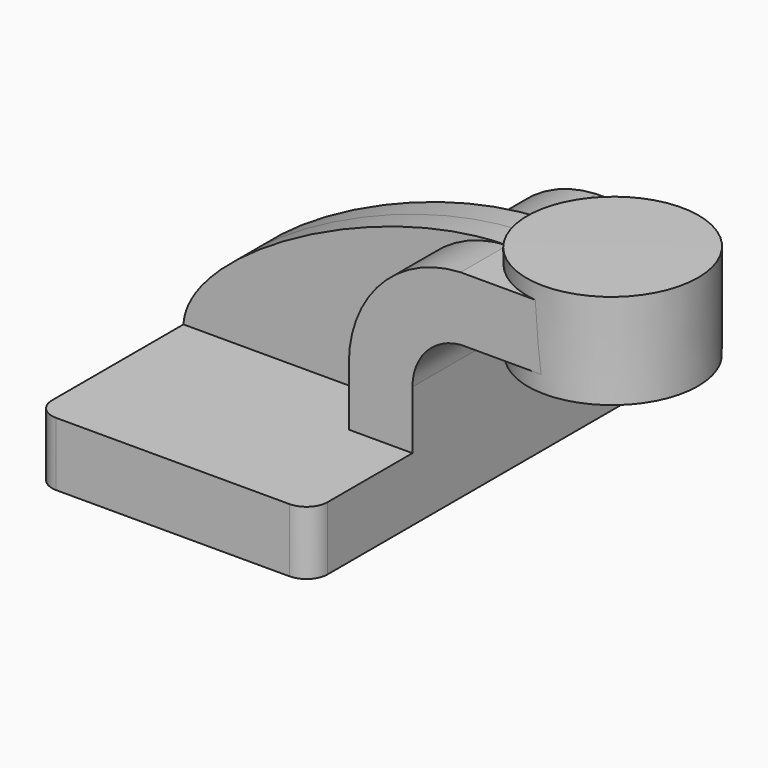
from build123d import *

# Parameters (mm, degrees)
F1_DEPTH = 63.5
F2_DEPTH = 25.4
F3_DEPTH = 7.9375
F4_DEPTH = 25.4
F6_R     = 6.35


with BuildPart() as f1:
    # F0 (on Front) → F1 (new body, symmetric)
    with BuildSketch(Plane.XZ):
        Polygon((22.225, 9.525), (-41.275, 9.525), (-41.275, -9.525), (41.275, -9.525), (41.275, 9.525), align=None)
    extrude(amount=F1_DEPTH, both=True)

    # F0 (on Front) → F2 (join, symmetric)
    with BuildSketch(Plane.XZ):
        with BuildLine():
            Line((22.225, 27.0002), (22.225, 9.525))
            Line((22.225, 9.525), (41.275, 9.525))
            Line((41.275, 9.525), (41.275, 27.0002))
            ThreePointArc((41.275, 27.0002), (45.4231719771, 37.70053315), (55.6998352153, 42.8088257182))
            Line((55.6998352153, 42.8088257182), (55.6998352153, 61.8950799553))
            ThreePointArc((55.6998352153, 61.8950799553), (31.9467995078, 51.1777579815), (22.225, 27.0002))
        make_face()
    extrude(amount=F2_DEPTH, both=True)

    # F0 (on Front) → F3 (join, symmetric)
    with BuildSketch(Plane.XZ):
        with BuildLine():
            add(Edge.make_bspline(
                [(-41.275, 9.525), (-40.1314669034, 30.5728232182), (15.8217890978, 61.4964285617), (55.6998352153, 61.9232521068)],
                knots=[0, 0, 0, 0, 110.1624749452, 110.1624749452, 110.1624749452, 110.1624749452], degree=3))
            Line((-41.275, 9.525), (22.225, 9.525))
            Line((22.225, 9.525), (22.225, 27.0002))
            ThreePointArc((22.225, 27.0002), (31.9467995078, 51.1777579815), (55.6998352153, 61.8950799553))
            Line((55.6998352153, 61.8950799553), (55.6998352153, 61.9232521068))
        make_face()
    extrude(amount=F3_DEPTH, both=True)

    # F4 (add): a face of the model
    f4_faces = [f1.faces().sort_by_distance(p)[0] for p in [
        (55.6998352153, 0, 52.3563592003),
    ]]
    extrude(f4_faces, amount=F4_DEPTH)

    # F0 (on Front) → F5 (revolve)
    with BuildSketch(Plane.XZ):
        Polygon((106.4998352153, 66.675), (80.9040206471, 66.675), (81.0998352153, 38.1), (106.4998352153, 38.1), align=None)
    revolve(axis=Axis((81.0019279312, 0, 52.3875), (-0.0068524924, 0, 0.9999765214)))

    # F6
    f6_edges = [f1.edges().sort_by_distance(p)[0] for p in [
        (-41.275, 63.5, 0),
        (-41.275, -63.5, 0),
        (41.275, -63.5, 0),
        (41.275, 63.5, 0),
    ]]
    fillet(f6_edges, radius=F6_R)


solid = f1.part
